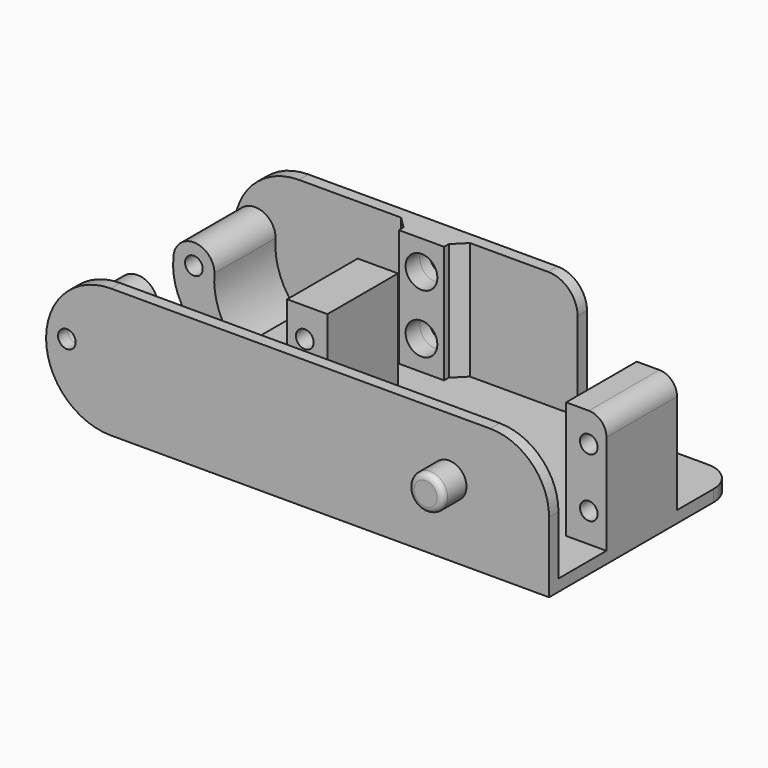
from build123d import *

# Parameters (mm, degrees)
SKETCH_W        = 74.53746
SKETCH_H        = 38
PAD_DEPTH       = 2
SKETCH001_W     = 6.85
SKETCH001_H     = 15
PAD001_DEPTH    = 20
SKETCH002_R     = 1.5
POCKET_DEPTH    = 17
SKETCH003_R     = 1.5
PAD002_DEPTH    = 2
SKETCH004_R     = 2.95
PAD003_DEPTH    = 5
SKETCH005_R     = 2.7
SKETCH005_R_2   = 1.5
PAD004_DEPTH    = 2
SKETCH006_W     = 7.7
SKETCH006_H     = 20
SKETCH006_R     = 2.7
PAD005_DEPTH    = 3
SKETCH007_R     = 1.5
PAD006_DEPTH    = 13
SKETCH008_R     = 1.5
PAD007_DEPTH    = 13
FILLET_R        = 3
FILLET001_R     = 5
FILLET002_R     = 1
CHAMFER_SIZE    = 2
CHAMFER001_SIZE = 2


with BuildPart() as part:
    # Sketch → Pad (new body)
    with BuildSketch(Plane.XY):
        Rectangle(SKETCH_W, SKETCH_H)
    extrude(amount=PAD_DEPTH)

    # Sketch001 (on Face6 of Pad) → Pad001 (join)
    with BuildSketch(Plane.XY.offset(2)):
        with Locations((33.84373, -1.3)):
            Rectangle(SKETCH001_W, SKETCH001_H)
        with Locations((-13.60627, -1.3)):
            Rectangle(SKETCH001_W, SKETCH001_H)
    extrude(amount=PAD001_DEPTH)

    # Sketch002 (on Face12 of Pad001) → Pocket (cut)
    with BuildSketch(Plane.XZ.offset(8.8)):
        with Locations((-14.03127, 17)):
            Circle(SKETCH002_R)
        with Locations((-14.03127, 7)):
            Circle(SKETCH002_R)
        with Locations((34.26873, 17)):
            Circle(SKETCH002_R)
        with Locations((34.26873, 7)):
            Circle(SKETCH002_R)
    extrude(amount=-POCKET_DEPTH, mode=Mode.SUBTRACT)

    # Sketch003 (on Face6 of Pocket) → Pad002 (join)
    with BuildSketch(Plane.XZ.offset(19)):
        with BuildLine():
            Line((37.26873, 0), (-37.26873, 0))
            ThreePointArc((-37.26873, 22), (-48.26873, 11), (-37.26873, 0))
            Line((-37.26873, 22), (27.26873, 22))
            ThreePointArc((37.26873, 12), (34.339798, 19.071068), (27.26873, 22))
            Line((37.26873, 12), (37.26873, 0))
        make_face()
        with Locations((-44.73127, 12)):
            Circle(SKETCH003_R, mode=Mode.SUBTRACT)
    extrude(amount=PAD002_DEPTH)

    # Sketch004 (on Face21 of Pad002) → Pad003 (join)
    with BuildSketch(Plane.XZ.offset(21)):
        with Locations((20.26873, 12)):
            Circle(SKETCH004_R)
    extrude(amount=PAD003_DEPTH)

    # Sketch005 (on Face1 of Pad003) → Pad004 (join)
    with BuildSketch(Plane(origin=(0, 19, 0), x_dir=(-1, 0, 0), z_dir=(0, 1, 0))):
        with BuildLine():
            Line((37.26873, 22), (-5.11873, 22))
            ThreePointArc((-5.11873, 22), (-8.654264, 20.535534), (-10.11873, 17))
            Line((-10.11873, 17), (-10.11873, 0))
            Line((-10.11873, 0), (37.26873, 0))
            ThreePointArc((37.26873, 0), (48.26873, 11), (37.26873, 22))
        make_face()
        with Locations((14.03127, 17)):
            Circle(SKETCH005_R, mode=Mode.SUBTRACT)
        with Locations((14.03127, 7)):
            Circle(SKETCH005_R, mode=Mode.SUBTRACT)
        with Locations((44.73127, 12)):
            Circle(SKETCH005_R_2, mode=Mode.SUBTRACT)
    extrude(amount=PAD004_DEPTH)

    # Sketch006 (on Face11 of Pad004) → Pad005 (join)
    with BuildSketch(Plane.XZ.offset(-19)):
        with Locations((-14.03127, 12)):
            Rectangle(SKETCH006_W, SKETCH006_H)
        with Locations((-14.03127, 7)):
            Circle(SKETCH006_R, mode=Mode.SUBTRACT)
        with Locations((-14.03127, 17)):
            Circle(SKETCH006_R, mode=Mode.SUBTRACT)
    extrude(amount=PAD005_DEPTH)

    # Sketch007 (on Face11 of Pad005) → Pad006 (join)
    with BuildSketch(Plane.XZ.offset(-19)):
        with BuildLine():
            ThreePointArc((-41.239359, 12.000001), (-40.426624, 6.534413), (-37.26873, 2))
            Line((-37.26873, 2), (-37.26873, 0))
            ThreePointArc((-48.223181, 11.999999), (-45.392768, 3.583801), (-37.26873, 0))
            ThreePointArc((-41.239359, 12.000001), (-44.731271, 15.491911), (-48.223181, 11.999999))
        make_face()
        with Locations((-44.73127, 12)):
            Circle(SKETCH007_R, mode=Mode.SUBTRACT)
    extrude(amount=PAD006_DEPTH)

    # Sketch008 (on Face20 of Pad006) → Pad007 (join)
    with BuildSketch(Plane(origin=(0, -19, 0), x_dir=(-1, 0, 0), z_dir=(0, 1, 0))):
        with BuildLine():
            Line((37.26873, 2), (37.26873, 0))
            ThreePointArc((37.26873, 0), (45.392768, 3.583802), (48.223181, 12))
            ThreePointArc((48.223181, 12), (44.73127, 15.491911), (41.239359, 12))
            ThreePointArc((37.26873, 2), (40.426624, 6.534412), (41.239359, 12))
        make_face()
        with Locations((44.73127, 12)):
            Circle(SKETCH008_R, mode=Mode.SUBTRACT)
    extrude(amount=PAD007_DEPTH)

    # Fillet
    fillet_edges = [part.edges().sort_by_distance(p)[0] for p in [
        (37.26873, -1.3, 22),
    ]]
    fillet(fillet_edges, radius=FILLET_R)

    # Fillet001
    fillet001_edges = [part.edges().sort_by_distance(p)[0] for p in [
        (37.26873, 19, 1),
    ]]
    fillet(fillet001_edges, radius=FILLET001_R)

    # Fillet002
    fillet002_edges = [part.edges().sort_by_distance(p)[0] for p in [
        (17.31873, -26, 12),
    ]]
    fillet(fillet002_edges, radius=FILLET002_R)

    # Chamfer
    chamfer_edges = [part.edges().sort_by_distance(p)[0] for p in [
        (-10.18127, 19, 12),
    ]]
    chamfer(chamfer_edges, length=CHAMFER_SIZE)

    # Chamfer001
    chamfer001_edges = [part.edges().sort_by_distance(p)[0] for p in [
        (-17.88127, 19, 12),
    ]]
    chamfer(chamfer001_edges, length=CHAMFER001_SIZE)


solid = part.part
